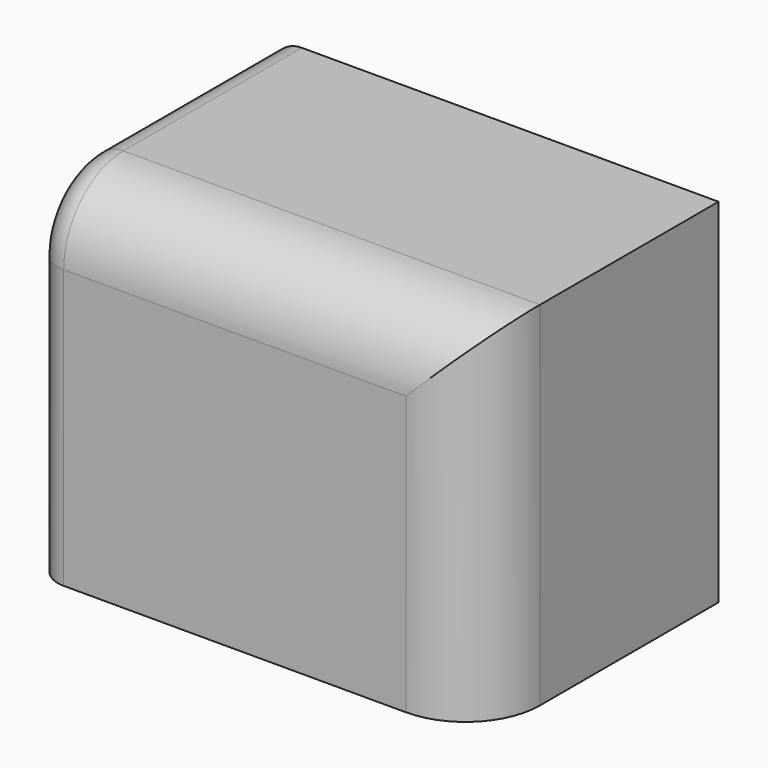
from build123d import *

# Parameters (mm, degrees)
F0_W     = 76.2
F0_H     = 60.207408
F1_DEPTH = 50.8
F2_R     = 12.7
F3_R     = 5.08


with BuildPart() as f1:
    # F0 (on Front) → F1 (new body)
    with BuildSketch(Plane.XZ):
        with Locations((-34.180247, 30.103704)):
            Rectangle(F0_W, F0_H)
    extrude(amount=F1_DEPTH)

    # F2
    f2_edges = [f1.edges().sort_by_distance(p)[0] for p in [
        (-34.180247, -50.8, 60.207408),
        (3.919753, -50.8, 30.103704),
    ]]
    fillet(f2_edges, radius=F2_R)

    # F3
    f3_edges = [f1.edges().sort_by_distance(p)[0] for p in [
        (-72.280247, -50.8, 23.753704),
    ]]
    fillet(f3_edges, radius=F3_R)


solid = f1.part
